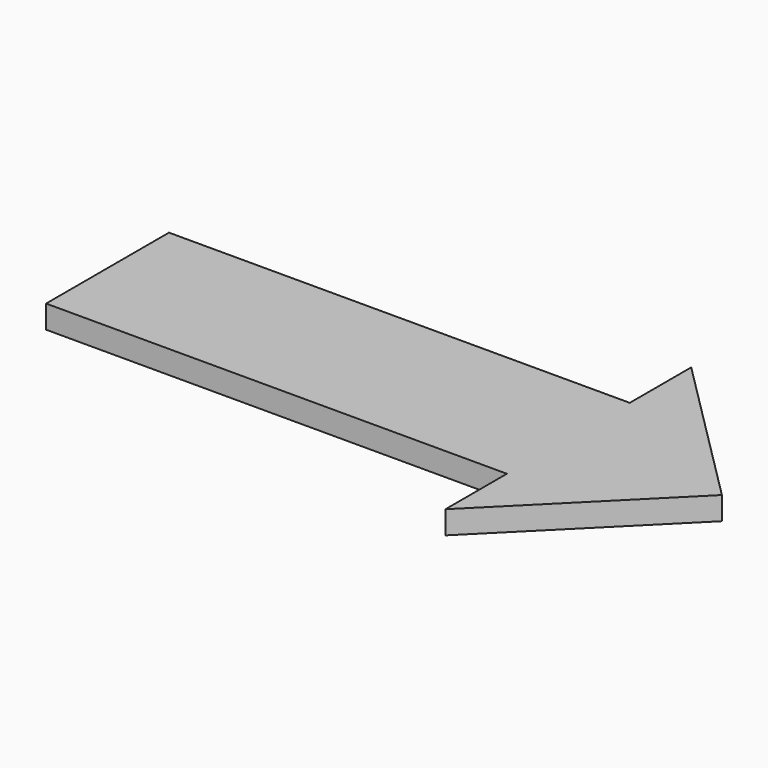
from build123d import *

# Parameters (mm, degrees)
PAD_DEPTH = 3


with BuildPart() as part:
    # Sketch → Pad (new body)
    with BuildSketch(Plane.XY):
        Polygon((-20, 10), (40, 10), (40, 20), (60, 0), (40, -20), (40, -10), (-20, -10), align=None)
    extrude(amount=PAD_DEPTH)


solid = part.part
